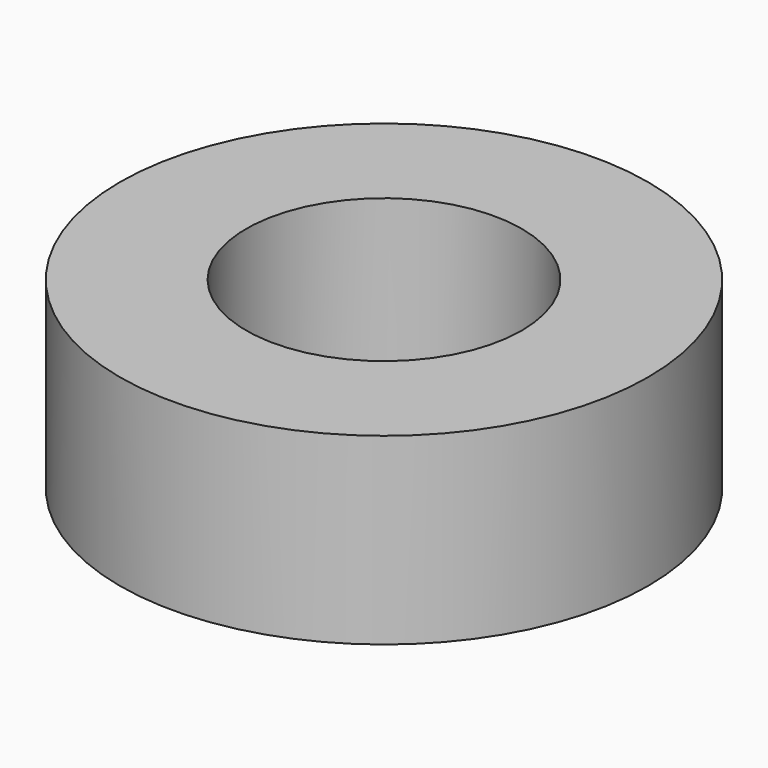
from build123d import *

# Parameters (mm, degrees)
F0_R     = 11.5
F0_R_2   = 6
F1_DEPTH = 8


with BuildPart() as f1:
    # F0 (on Top) → F1 (new body)
    with BuildSketch(Plane.XY):
        Circle(F0_R)
        Circle(F0_R_2, mode=Mode.SUBTRACT)
        Circle(F0_R)
        Circle(F0_R_2, mode=Mode.SUBTRACT)
    extrude(amount=F1_DEPTH)


solid = f1.part
